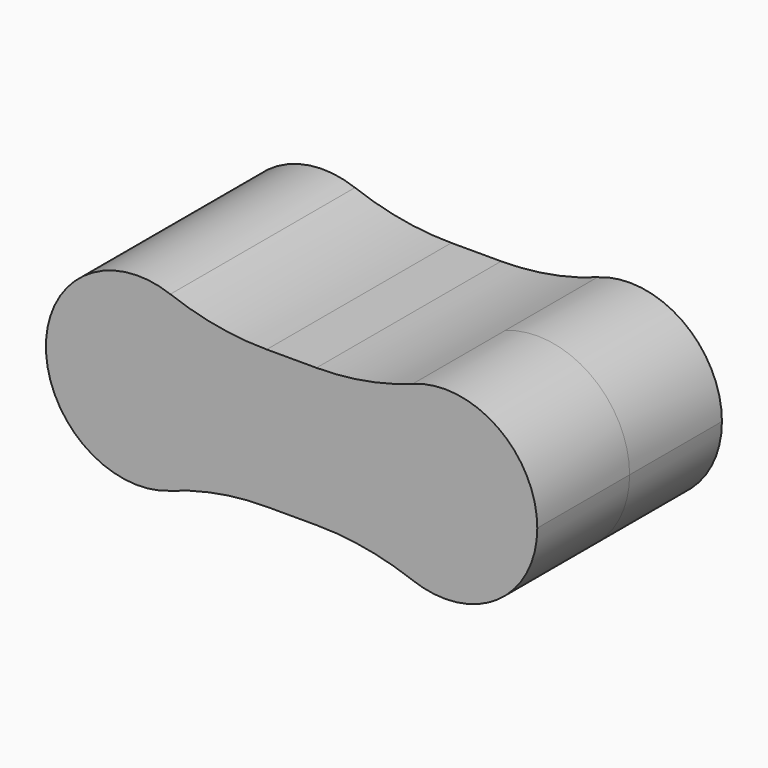
from build123d import *

# Parameters (mm, degrees)
F1_DEPTH = 63.5
F2_R     = 152.4


with BuildPart() as f1:
    # F0 (on Front) → F1 (new body, symmetric)
    with BuildSketch(Plane.XZ):
        with BuildLine():
            ThreePointArc((-50.8, -38.1), (-38.1, -20.901042), (-33.601042, 0))
            ThreePointArc((-33.601042, 0), (-38.1, 20.901042), (-50.8, 38.1))
            ThreePointArc((-50.8, 38.1), (-135.201042, 0), (-50.8, -38.1))
        make_face()
        with BuildLine():
            ThreePointArc((-50.8, 38.1), (-38.1, 20.901042), (-33.601042, 0))
            ThreePointArc((-33.601042, 0), (-38.1, -20.901042), (-50.8, -38.1))
            Line((-50.8, -38.1), (50.8, -38.1))
            ThreePointArc((50.8, -38.1), (33.601042, 0), (50.8, 38.1))
            Line((50.8, 38.1), (-50.8, 38.1))
        make_face()
        with BuildLine():
            ThreePointArc((135.201042, 0), (105.302083, 46.301042), (50.8, 38.1))
            ThreePointArc((50.8, 38.1), (33.601042, 0), (50.8, -38.1))
            ThreePointArc((50.8, -38.1), (105.302083, -46.301042), (135.201042, 0))
        make_face()
    extrude(amount=F1_DEPTH, both=True)

    # F2
    f2_edges = [f1.edges().sort_by_distance(p)[0] for p in [
        (-50.8, 0, 38.1),
        (50.8, 0, 38.1),
        (-50.8, 0, -38.1),
        (50.8, 0, -38.1),
    ]]
    fillet(f2_edges, radius=F2_R)


solid = f1.part
